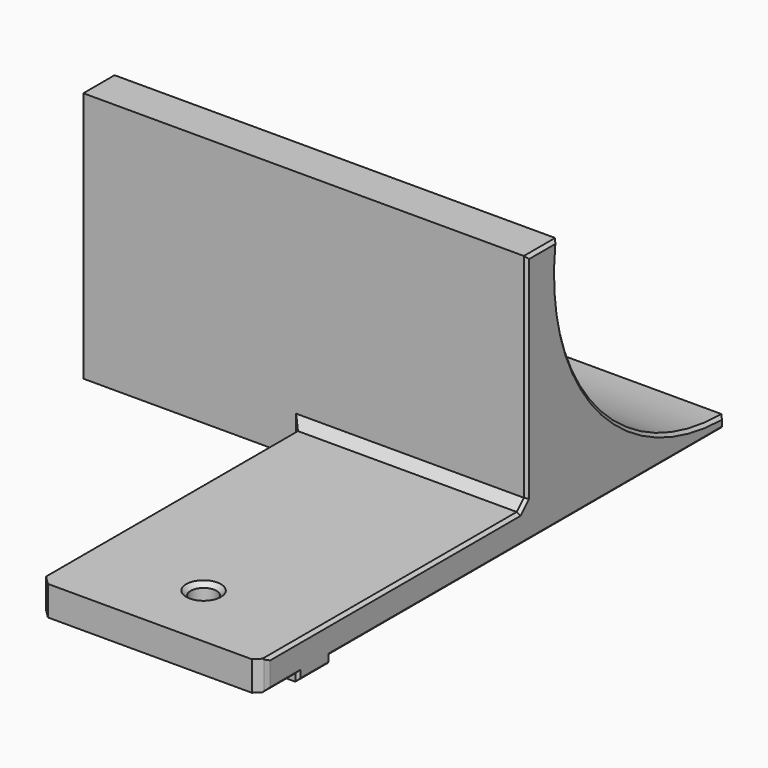
from build123d import *

# Parameters (mm, degrees)
PAD_DEPTH       = 60
SKETCH001_W     = 30
SKETCH001_H     = 45
POCKET_DEPTH    = 5
SKETCH002_R     = 1.75
POCKET001_DEPTH = 5.001
CHAMFER_SIZE    = 1.2
CHAMFER001_SIZE = 0.6
CHAMFER002_SIZE = 0.4


with BuildPart() as part:
    # Sketch → Pad (new body)
    with BuildSketch(Plane.YZ):
        with BuildLine():
            Line((-45, -4), (-45, 0))
            Line((-45, 0), (0, 0))
            Line((0, 0), (0, 30))
            Line((0, 30), (5, 30))
            Line((5, 30), (5.283101, 30))
            ThreePointArc((5.283101, 30), (11.950524, 7.386027), (33.4, -2.4))
            Line((33.4, -2.4), (33.4, -4))
            Line((33.4, -4), (0, -4))
            Line((0, -4), (-33.175, -4))
            Line((-33.175, -4), (-33.175, -5))
            Line((-33.175, -5), (-38.65, -5))
            Line((-38.65, -5), (-38.65, -4))
            Line((-38.65, -4), (-45, -4))
        make_face()
    extrude(amount=PAD_DEPTH)

    # Sketch001 → Pocket (cut)
    with BuildSketch(Plane.XY):
        with Locations((15, -22.5)):
            Rectangle(SKETCH001_W, SKETCH001_H)
    extrude(amount=-POCKET_DEPTH, mode=Mode.SUBTRACT)

    # Sketch002 → Pocket001 (cut, through all)
    with BuildSketch(Plane.XY):
        with Locations((45, -35.9125)):
            Circle(SKETCH002_R)
    extrude(amount=-POCKET001_DEPTH, mode=Mode.SUBTRACT)

    # Chamfer
    chamfer_edges = [part.edges().sort_by_distance(p)[0] for p in [
        (30, 0, -2),
        (45, 0, 0),
        (60, -45, -2),
        (30, -45, -2),
    ]]
    chamfer(chamfer_edges, length=CHAMFER_SIZE)

    # Chamfer001
    chamfer001_edges = [part.edges().sort_by_distance(p)[0] for p in [
        (43.25, -35.9125, 0),
    ]]
    chamfer(chamfer001_edges, length=CHAMFER001_SIZE)

    # Chamfer002
    chamfer002_edges = [part.edges().sort_by_distance(p)[0] for p in [
        (60, -22.5, 0),
        (60, -43.8, -2),
        (60, -0.6, 0.6),
        (60, -41.225, -4),
        (60, 0, 15.6),
        (60, -38.65, -4.5),
        (60, 2.641551, 30),
        (60, -35.9125, -5),
        (60, 11.950524, 7.386027),
        (60, -33.175, -4.5),
        (60, 33.4, -3.2),
        (60, 0.1125, -4),
    ]]
    chamfer(chamfer002_edges, length=CHAMFER002_SIZE)


solid = part.part
